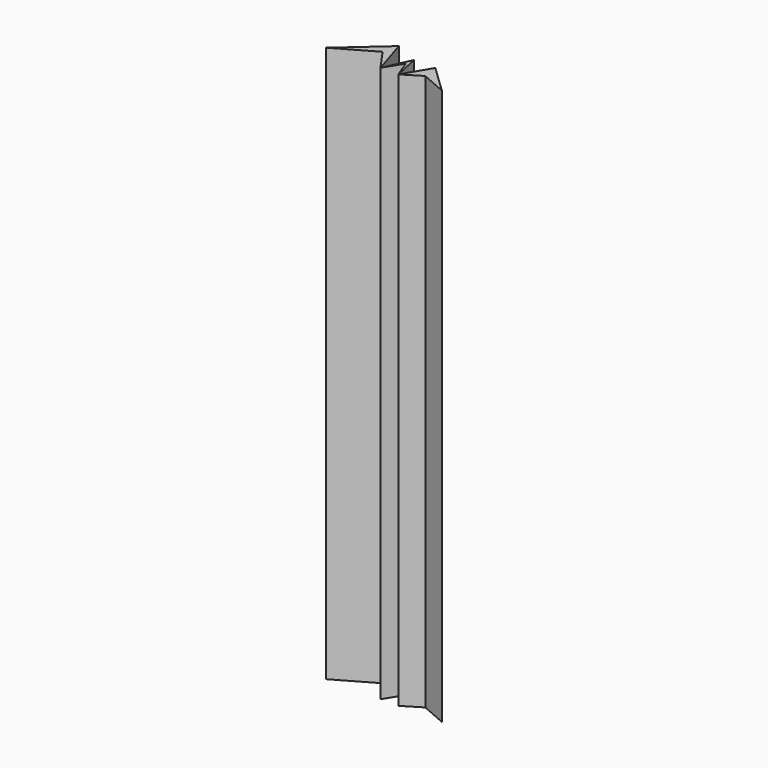
from build123d import *

# Parameters (mm, degrees)
F1_DEPTH = 635


with BuildPart() as f1:
    # F0 (on Top) → F1 (new body)
    with BuildSketch(Plane.XY):
        Polygon((-9.934127, 42.95839), (-58.530807, 0), (-14.31256, 25.298852), (3.49037, 0), align=None)
        Polygon((17.451847, 30.339362), (3.49037, 0), (16.078463, 20.340318), (23.895603, 0), align=None)
        Polygon((41.88443, 30.339362), (23.895603, 0), (44.569328, 12.619027), (73.566243, 0), align=None)
    extrude(amount=F1_DEPTH)


solid = f1.part
